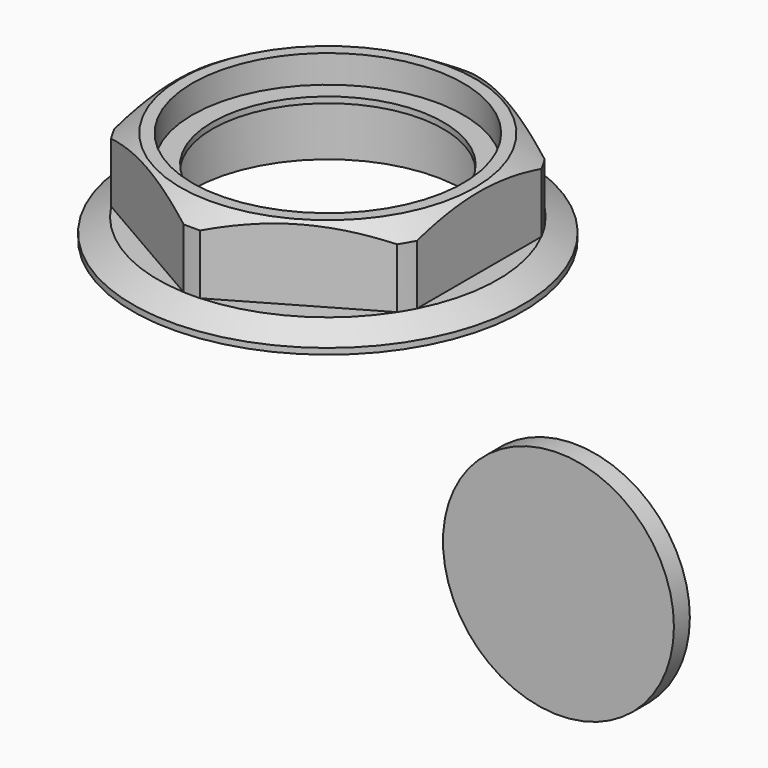
from build123d import *

# Parameters (mm, degrees)
F3_START  = 5
F3_DEPTH  = 24.3
F4_R      = 29
F4_R_2    = 25
F5_DEPTH  = 5
F5_FACE_R = 29
F6_DEPTH  = 3
F7_R      = 22.958760834
F8_DEPTH  = 3


with BuildPart() as f1:
    # F0 (on Front) → F1 (revolve)
    with BuildSketch(Plane.XZ):
        Polygon((-49, 0), (-34, 0), (-34, 15), (-29, 15), (-29, 16.5), (-34, 16.5), (-34, 23.5), (-37, 23.5), (-42.7267885808, 20), (-42.7267885808, 5), (-49, 1.5), align=None)
    revolve(axis=Axis((0, 0, 10.3921918198), (0, 0, 1)))

    # F2 (on Top) → F3 (cut)
    with BuildSketch(Plane.XY.offset(F3_START)):
        with BuildLine():
            Line((-38, -21.787268535), (-38, 21.787268535))
            ThreePointArc((-38, 21.787268535), (-43.8027975159, 0), (-38, -21.787268535))
        make_face()
        with BuildLine():
            Line((-0.1316719696, -43.8025996113), (-37.8683280304, -22.0153310763))
            ThreePointArc((-37.8683280304, -22.0153310763), (-21.9013987579, -37.9343354056), (-0.1316719696, -43.8025996113))
        make_face()
        with BuildLine():
            Line((37.8683280304, -22.0153310763), (0.1316719696, -43.8025996113))
            ThreePointArc((0.1316719696, -43.8025996113), (21.9013987579, -37.9343354056), (37.8683280304, -22.0153310763))
        make_face()
        with BuildLine():
            Line((38, 21.787268535), (38, -21.787268535))
            ThreePointArc((38, -21.787268535), (43.8027975159, 0), (38, 21.787268535))
        make_face()
        with BuildLine():
            Line((0.1316719696, 43.8025996113), (37.8683280304, 22.0153310763))
            ThreePointArc((37.8683280304, 22.0153310763), (21.9013987579, 37.9343354056), (0.1316719696, 43.8025996113))
        make_face()
        with BuildLine():
            Line((-37.8683280304, 22.0153310763), (-0.1316719696, 43.8025996113))
            ThreePointArc((-0.1316719696, 43.8025996113), (-21.9013987579, 37.9343354056), (-37.8683280304, 22.0153310763))
        make_face()
    extrude(amount=F3_DEPTH, mode=Mode.SUBTRACT)


with BuildPart() as f5:
    # F4 (on Front) → F5 (new body)
    with BuildSketch(Plane.XZ):
        with Locations((57.9189360142, -57.369556278)):
            Circle(F4_R)
        with Locations((57.9189360142, -57.369556278)):
            Circle(F4_R_2, mode=Mode.SUBTRACT)
        with Locations((57.9189360142, -57.369556278)):
            Circle(F4_R_2)
    extrude(amount=-F5_DEPTH)

    # F4 (on Front) + F5_face (on face) → F6 (join)
    with BuildSketch(Plane.XZ):
        with Locations((57.9189360142, -57.369556278)):
            Circle(F4_R)
        with Locations((57.9189360142, -57.369556278)):
            Circle(F4_R_2, mode=Mode.SUBTRACT)
    with BuildSketch(Plane(origin=(57.9189360142, 0, -57.369556278), x_dir=(1, 0, 0), z_dir=(0, -1, 0))):
        Circle(F5_FACE_R)
    extrude(amount=-F6_DEPTH)

    # F7 (on face) → F8 (cut)
    with BuildSketch(Plane(origin=(0, 5, 0), x_dir=(-1, 0, 0), z_dir=(0, 1, 0))):
        with Locations((-57.9189360142, -57.369556278)):
            Circle(F7_R)
    extrude(amount=-F8_DEPTH, mode=Mode.SUBTRACT)


solid = Compound([f1.part, f5.part])
